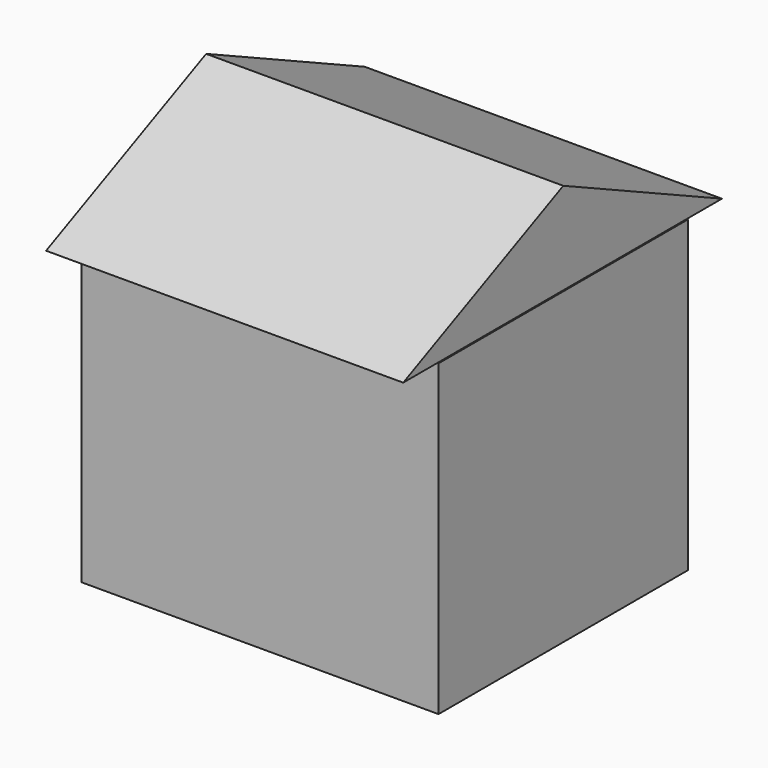
from build123d import *

# Parameters (mm, degrees)
F0_W      = 110.8863390982
F0_H      = 109.8123788834
F1_DEPTH  = 127
F2_W      = 17.6881682128
F2_H      = 29.3643288314
F3_DEPTH  = 6.35
F4_W      = 25.5065448582
F4_H      = 15.3039274737
F5_DEPTH  = 3.81
F6_W      = 22.0161788166
F6_H      = 20.1367447153
F7_DEPTH  = 4.826
F9_DEPTH  = 127
F10_W     = 76.2928482145
F10_H     = 24.4024917483
F11_DEPTH = 4.064
F12_W     = 12.0610017329
F12_H     = 18.7927260995
F13_DEPTH = 2.54


with BuildPart() as f1:
    # F0 (on Right) → F1 (new body)
    with BuildSketch(Plane.YZ):
        with Locations((-1.8626e-06, -4.9670636654)):
            Rectangle(F0_W, F0_H)
    extrude(amount=F1_DEPTH)

    # F2 (on face) → F3 (cut)
    with BuildSketch(Plane(origin=(0, 0, 0), x_dir=(0, -1, 0), z_dir=(-1, 0, 0))):
        with Locations((-4.1606072336, -45.1910886914)):
            Rectangle(F2_W, F2_H)
    extrude(amount=-F3_DEPTH, mode=Mode.SUBTRACT)

    # F4 (on face) → F5 (cut)
    with BuildSketch(Plane(origin=(0, 0, 0), x_dir=(0, -1, 0), z_dir=(-1, 0, 0))):
        with Locations((-35.172181204, 21.3449508883)):
            Rectangle(F4_W, F4_H)
    extrude(amount=-F5_DEPTH, mode=Mode.SUBTRACT)

    # F6 (on face) → F7 (cut)
    with BuildSketch(Plane(origin=(0, 0, 0), x_dir=(0, -1, 0), z_dir=(-1, 0, 0))):
        with Locations((28.0571971089, 1.7451844178)):
            Rectangle(F6_W, F6_H)
    extrude(amount=-F7_DEPTH, mode=Mode.SUBTRACT)

    # F10 (on face) → F11 (cut)
    with BuildSketch(Plane(origin=(0, 55.4431676865, 0), x_dir=(-1, 0, 0), z_dir=(0, 1, 0))):
        with Locations((-66.772040911, 24.3016667664)):
            Rectangle(F10_W, F10_H)
    extrude(amount=-F11_DEPTH, mode=Mode.SUBTRACT)


with BuildPart() as f9:
    # F8 (on Right) → F9 (new body)
    with BuildSketch(Plane.YZ):
        Polygon((-71.1464881897, 50.2924360335), (70.5291628838, 50.2924360335), (0, 83.0105617642), align=None)
    extrude(amount=F9_DEPTH)

    # F12 (on face) → F13 (cut)
    with BuildSketch(Plane(origin=(0, 0, 0), x_dir=(0, -1, 0), z_dir=(-1, 0, 0))):
        with Locations((-0.5609779619, 64.972486347)):
            Rectangle(F12_W, F12_H)
    extrude(amount=-F13_DEPTH, mode=Mode.SUBTRACT)


solid = Compound([f1.part, f9.part])
